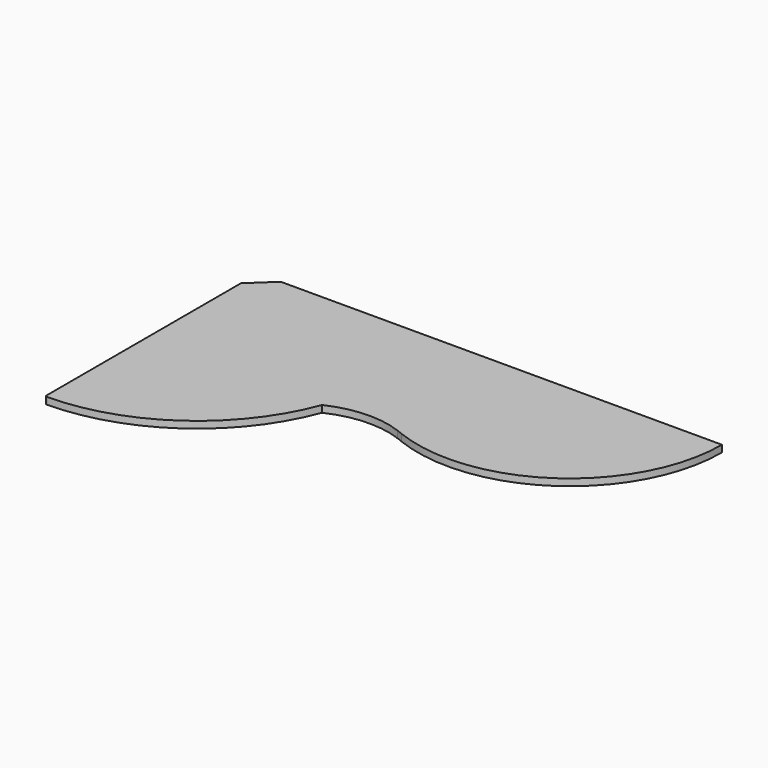
from build123d import *

# Parameters (mm, degrees)
F1_DEPTH = 18


with BuildPart() as f1:
    # F0 (on Top) → F1 (new body)
    with BuildSketch(Plane.XY):
        with BuildLine():
            Line((-196.1456458643, 303.0995183934), (-556.2254190445, 303.0995183934))
            Line((-556.2254190445, 303.0995183934), (-616.1456458643, 246.8996196985))
            Line((-616.1456458643, 246.8996196985), (-616.1456458643, -391.9004816066))
            ThreePointArc((-616.1456458643, -391.9004816066), (-614.6811797702, -395.4360155125), (-611.1456458643, -396.9004816066))
            ThreePointArc((-611.1456458643, -396.9004816066), (-329.0727216352, -306.3075359847), (-147.7778268918, -71.9907044945))
            ThreePointArc((-147.7778268918, -71.9907044945), (-127.8465344688, -4.5525963575), (-117.573135126, 65.0147243663))
            ThreePointArc((-117.573135126, 65.0147243663), (-175.9949552652, 177.7420210203), (-196.1456458643, 303.0995183934))
        make_face()
        with BuildLine():
            Line((-157.8607999442, 303.0995183934), (-196.1456458643, 303.0995183934))
            ThreePointArc((-196.1456458643, 303.0995183934), (-175.9949552652, 177.7420210203), (-117.573135126, 65.0147243663))
            ThreePointArc((-117.573135126, 65.0147243663), (-116.4839005954, 84.0432775566), (-116.1206464893, 103.0995183934))
            ThreePointArc((-116.1206464893, 103.0995183934), (-126.6669028147, 205.2541076325), (-157.8607999442, 303.0995183934))
        make_face()
        with BuildLine():
            ThreePointArc((44.8805112638, -63.9526812765), (-44.8513110762, -10.1822909915), (-117.573135126, 65.0147243663))
            ThreePointArc((-117.573135126, 65.0147243663), (-127.8465344688, -4.5525963575), (-147.7778268918, -71.9907044945))
            ThreePointArc((-147.7778268918, -71.9907044945), (-52.2652669364, -48.3989008983), (44.8805112638, -63.9526812765))
        make_face()
        with BuildLine():
            Line((603.8543541357, 303.0995183934), (-157.8607999442, 303.0995183934))
            ThreePointArc((-157.8607999442, 303.0995183934), (-126.6669028147, 205.2541076325), (-116.1206464893, 103.0995183934))
            ThreePointArc((-116.1206464893, 103.0995183934), (-116.4839005954, 84.0432775566), (-117.573135126, 65.0147243663))
            ThreePointArc((-117.573135126, 65.0147243663), (-44.8513110762, -10.1822909915), (44.8805112638, -63.9526812765))
            ThreePointArc((44.8805112638, -63.9526812765), (51.9164884797, -66.7183226393), (58.8645484837, -69.6979551187))
            ThreePointArc((58.8645484837, -69.6979551187), (429.6906640365, -27.0488741975), (603.8543541357, 303.0995183934))
        make_face()
    extrude(amount=F1_DEPTH)


solid = f1.part
